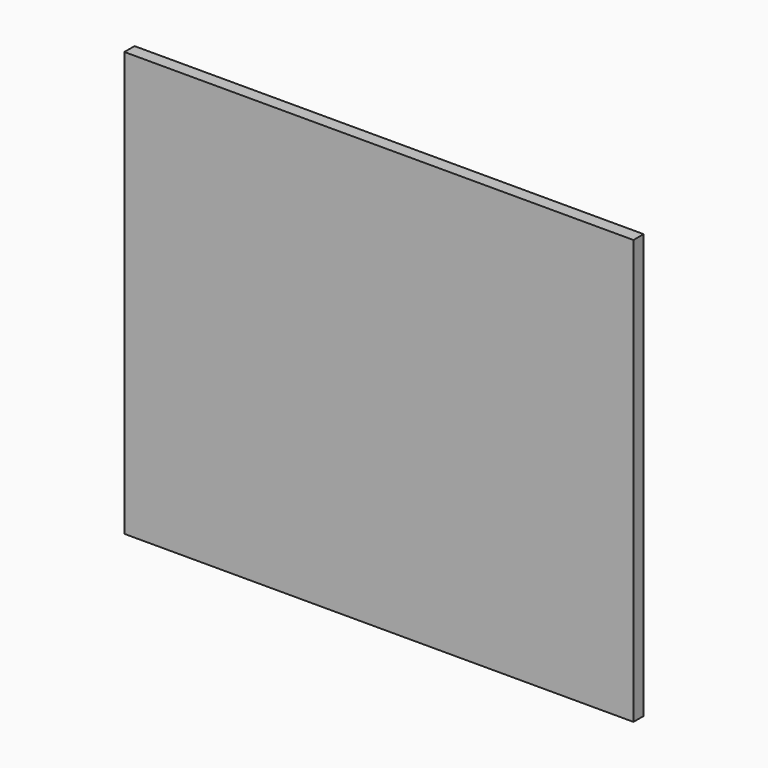
from build123d import *

# Parameters (mm, degrees)
SKETCH_W  = 600
SKETCH_H  = 500
PAD_DEPTH = 15


with BuildPart() as part:
    # Sketch → Pad (new body)
    with BuildSketch(Plane.XZ):
        with Locations((300, 250)):
            Rectangle(SKETCH_W, SKETCH_H)
    extrude(amount=PAD_DEPTH)


solid = part.part
